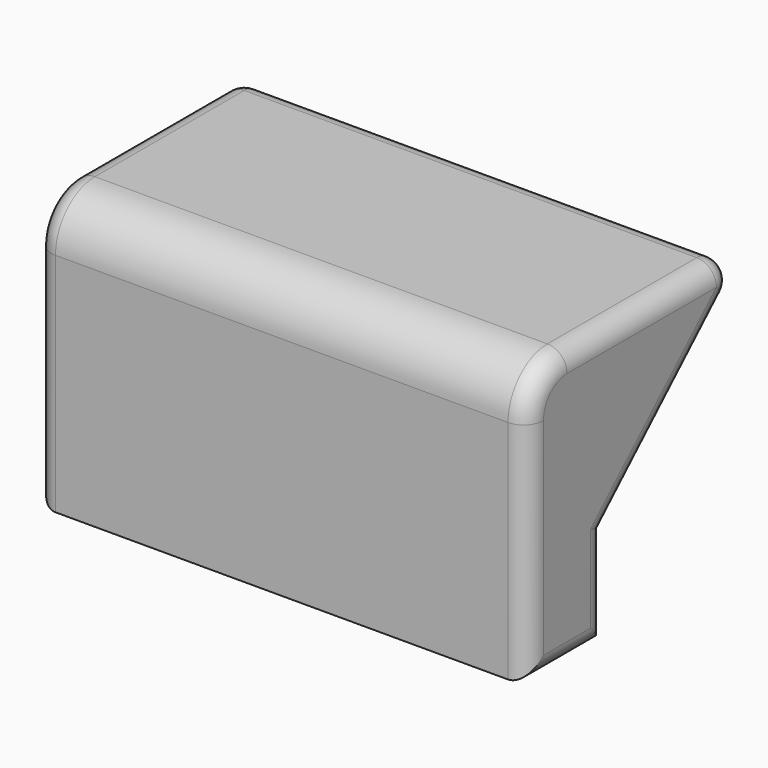
from build123d import *

# Parameters (mm, degrees)
PAD002_DEPTH = 50
SKETCH005_R  = 1.25
POCKET_DEPTH = 20
FILLET_R     = 2
FILLET001_R  = 2


with BuildPart() as part:
    # Sketch002 → Pad002 (new body)
    with BuildSketch(Plane.YZ):
        with BuildLine():
            Line((0, 0), (10, 0))
            Line((10, 0), (10, 10))
            Line((10, 10), (29, 28))
            Line((29, 28), (5, 28))
            ThreePointArc((5, 28), (1.464466, 26.535534), (0, 23))
            Line((0, 23), (0, 0))
        make_face()
    extrude(amount=PAD002_DEPTH)

    # Sketch005 → Pocket (cut)
    with BuildSketch(Plane.XY):
        with Locations((5, 4)):
            Circle(SKETCH005_R)
        with Locations((15, 4)):
            Circle(SKETCH005_R)
        with Locations((25, 4)):
            Circle(SKETCH005_R)
        with Locations((35, 4)):
            Circle(SKETCH005_R)
        with Locations((45, 4)):
            Circle(SKETCH005_R)
    extrude(amount=POCKET_DEPTH, mode=Mode.SUBTRACT)

    # Fillet
    fillet_edges = [part.edges().sort_by_distance(p)[0] for p in [
        (25, 29, 28),
    ]]
    fillet(fillet_edges, radius=FILLET_R)

    # Fillet001
    fillet001_edges = [part.edges().sort_by_distance(p)[0] for p in [
        (50, 17.678161, 17.274047),
        (50, 25.838763, 26.740334),
        (50, 10, 5),
        (50, 14.490416, 28),
        (50, 5, 0),
        (50, 1.464466, 26.535534),
        (50, 0, 11.5),
        (0, 17.678161, 17.274047),
        (0, 25.838763, 26.740334),
        (0, 10, 5),
        (0, 14.490416, 28),
        (0, 5, 0),
        (0, 1.464466, 26.535534),
        (0, 0, 11.5),
    ]]
    fillet(fillet001_edges, radius=FILLET001_R)


with BuildPart() as part_1:
    # Body002 placement: moved
    add(part.part.moved(Location((0, 0, 4))))


solid = part_1.part
